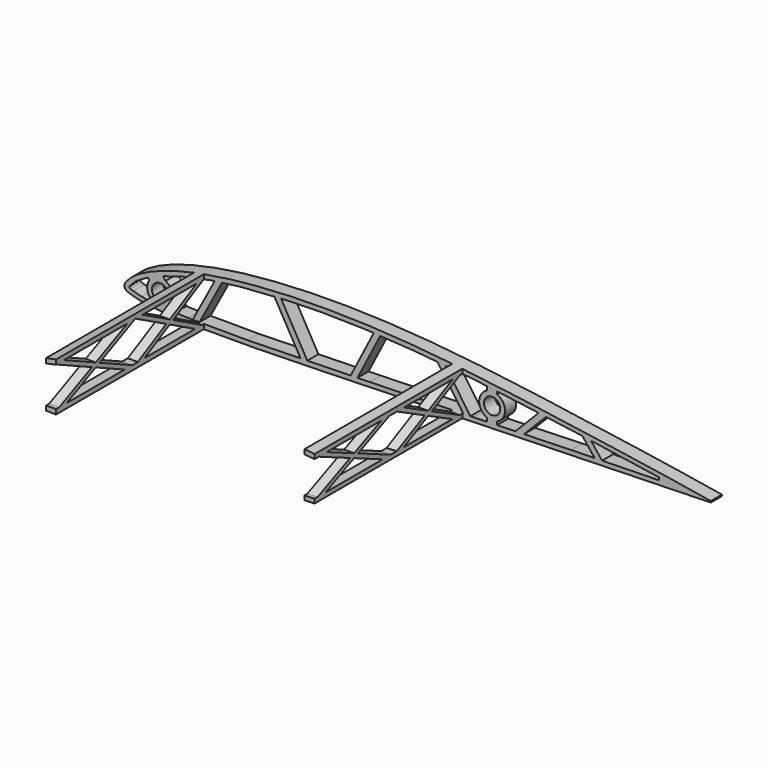
from build123d import *

# Parameters (mm, degrees)
PAD085_DEPTH    = 99.95
POCKET108_DEPTH = 99.95
SKETCH196_W     = 94.552856
SKETCH196_H     = 125.009666
POCKET109_DEPTH = 2.5
SKETCH198_W     = 55
SKETCH198_H     = 110
SKETCH198_W_2   = 125
SKETCH198_W_3   = 130
POCKET110_DEPTH = 50
SKETCH197_R     = 4.1
PAD086_DEPTH    = 7
PAD087_DEPTH    = 5
PAD088_DEPTH    = 5


with BuildPart() as part:
    # Sketch194 → Pad085 (new body)
    with BuildSketch(Plane.XZ):
        with BuildLine():
            add(Edge.make_bspline(
                [(299.999063, 0.026825), (299.662766, 0.037193), (298.339429, 0.190401), (295.439956, 0.589669), (290.775356, 1.337839), (284.500044, 2.393262), (276.735212, 3.66473), (267.577355, 5.083019), (257.136483, 6.653879), (245.549215, 8.381993), (232.975291, 10.222771), (219.590016, 12.153256), (205.573823, 14.115503), (191.111579, 16.055183), (176.381713, 17.897983), (161.544489, 19.553409), (146.739309, 20.940939), (132.087536, 21.99009), (117.705275, 22.664279), (103.703346, 22.961168), (90.192549, 22.858072), (77.284675, 22.375726), (65.094168, 21.544938), (53.730431, 20.369385), (43.29002, 18.857963), (33.852484, 17.043697), (25.485501, 14.967735), (18.252292, 12.67281), (12.179436, 10.224412), (7.338355, 7.689021), (3.623023, 5.152403), (1.3546, 2.748114), (-0.314638, 0.590402), (0.575789, -1.804065), (3.482069, -2.72942), (7.386052, -3.91761), (13.030922, -4.754284), (20.096342, -5.463024), (28.645402, -5.933379), (38.56853, -6.201185), (49.790194, -6.284208), (62.196701, -6.193111), (75.660953, -5.967607), (90.034637, -5.629522), (105.153445, -5.226063), (120.83724, -4.775199), (136.895942, -4.296045), (153.13493, -3.818601), (169.356828, -3.345106), (185.36574, -2.889379), (200.968742, -2.465331), (215.974941, -2.074889), (230.201502, -1.715375), (243.47905, -1.394255), (255.639348, -1.103787), (266.55871, -0.849968), (276.034544, -0.603524), (284.209012, -0.340437), (290.324953, -0.117215), (295.955653, 0.018504), (297.364702, 0.013759), (300.343856, 0.01512), (300.000055, 0.026794), (299.999063, 0.026825)],
                knots=[0, 0, 0, 0, 1.017748, 3.99659, 8.779341, 15.189917, 23.087031, 32.383824, 42.990765, 54.76218, 67.530065, 81.114584, 95.333435, 109.988542, 124.889458, 139.866624, 154.774633, 169.496697, 183.930349, 197.964304, 211.506735, 224.45797, 236.709214, 248.156653, 258.723012, 268.346769, 276.97692, 284.567784, 291.102108, 296.573756, 300.992679, 304.39163, 306.761357, 308.43213, 311.131254, 315.298227, 320.951765, 328.080828, 336.654655, 346.609821, 357.866231, 370.316475, 383.83025, 398.264023, 413.449345, 429.202773, 445.334827, 461.646891, 477.940787, 494.021253, 509.693044, 524.767168, 539.054704, 552.387642, 564.607107, 575.560217, 585.109622, 593.180747, 599.700326, 604.53767, 607.540683, 608.560842, 608.563842, 608.563842, 608.563842, 608.563842], degree=3))
        make_face()
    extrude(amount=PAD085_DEPTH)

    # Sketch195 (on Face3 of Pad085) → Pocket108 (cut)
    with BuildSketch(Plane.XZ.offset(99.95)):
        with BuildLine():
            Line((2.713263, 0.775372), (3.386703, 1.523026))
            Line((3.386703, 1.523026), (5.993214, 4.179621))
            Line((5.993214, 4.179621), (11.230826, 7.180706))
            Line((11.230826, 7.180706), (18.928726, 10.492708))
            Line((18.928726, 10.492708), (30.015602, 13.804502))
            Line((30.015602, 13.804502), (43.705284, 16.658491))
            Line((43.705284, 16.658491), (58.37534, 18.58366))
            Line((58.37534, 18.58366), (81.932846, 20.199753))
            Line((81.932846, 20.199753), (99.115959, 20.581533))
            Line((99.115959, 20.581533), (120.506348, 20.199753))
            Line((120.506348, 20.199753), (145.772324, 18.655943))
            Line((145.772324, 18.655943), (175.747543, 15.772772))
            Line((175.747543, 15.772772), (200.435547, 12.569891))
            Line((200.435547, 12.569891), (229.384109, 8.602522))
            Line((229.384109, 8.602522), (252.135086, 5.213018))
            Line((252.135086, 5.213018), (269.069916, 2.671427))
            Line((269.069916, 2.671427), (269.069916, 1.39956))
            Line((269.069916, 1.39956), (224.761032, 0.436598))
            Line((224.761032, 0.436598), (175.486649, -1.027315))
            Line((175.486649, -1.027315), (123.47789, -2.412929))
            Line((123.47789, -2.412929), (62.077515, -3.876549))
            Line((62.077515, -3.876549), (32.052879, -3.760909))
            Line((32.052879, -3.760909), (18.887957, -3.18288))
            Line((18.887957, -3.18288), (12.728564, -2.489715))
            Line((12.728564, -2.489715), (8.493419, -1.872198))
            Line((8.493419, -1.872198), (4.562357, -0.768246))
            Line((4.562357, -0.768246), (3.013953, -0.301296))
            ThreePointArc((2.713263, 0.775372), (2.567567, 0.15436), (3.013953, -0.301296))
        make_face()
    extrude(amount=-POCKET108_DEPTH, mode=Mode.SUBTRACT)

    # Sketch196 → Pocket109 (cut, symmetric)
    with BuildSketch(Plane.XY):
        with Locations((342.276428, -45.135685)):
            Rectangle(SKETCH196_W, SKETCH196_H)
    extrude(amount=POCKET109_DEPTH, both=True, mode=Mode.SUBTRACT)

    # Sketch198 → Pocket110 (cut, symmetric)
    with BuildSketch(Plane.XY):
        with Locations((7.5, -62)):
            Rectangle(SKETCH198_W, SKETCH198_H)
        with Locations((102.5, -62)):
            Rectangle(SKETCH198_W_2, SKETCH198_H)
        with Locations((235, -62)):
            Rectangle(SKETCH198_W_3, SKETCH198_H)
    extrude(amount=POCKET110_DEPTH, both=True, mode=Mode.SUBTRACT)

    # Sketch197 (on Face16 of Pocket110) → Pad086 (join)
    with BuildSketch(Plane.XZ.offset(7)):
        Polygon((45.883972, 17.721869), (33.929979, -4.654965), (37.331221, -4.654965), (49.864502, 18.806244), align=None)
        with BuildLine():
            ThreePointArc((12.49229, 6.45183), (11.877033, 0.818423), (15.915785, -3.156789))
            Line((15.915785, -3.156789), (16.615922, -4.582716))
            Line((16.615922, -4.582716), (26.093039, -4.582716))
            Line((23.927186, 0.331954), (26.093039, -4.582716))
            ThreePointArc((23.927186, 0.331954), (24.083233, 5.290038), (20.696327, 8.914374))
            Line((20.696327, 8.914374), (19.191151, 11.361285))
            Line((11.725203, 8.211095), (19.191151, 11.361285))
            Line((12.49229, 6.45183), (11.725203, 8.211095))
        make_face()
        with Locations((18, 3)):
            Circle(SKETCH197_R, mode=Mode.SUBTRACT)
        Polygon((74.837349, 20.968384), (89.206329, -4.249731), (92.659144, -4.249731), (78.184032, 21.154647), align=None)
        Polygon((113.371621, -3.617416), (125.992361, 20.986459), (129.33754, 20.934824), (116.743287, -3.617416), align=None)
        Polygon((156.489991, 19.012594), (171.223801, -2.187052), (175.064011, -2.455857), (160.385949, 18.663577), align=None)
        Polygon((195.991472, -1.145031), (209.190294, 12.320477), (213.439896, 12.370226), (200.19231, -1.145031), align=None)
        Polygon((229.837707, 9.194464), (237.095519, 0), (240.917549, 0), (234.226173, 8.476883), align=None)
        with BuildLine():
            ThreePointArc((182.5, 13), (178.5, 7), (182.5, 1))
            Line((182.5, 1), (182.5, -1.799935))
            Line((182.5, -1.799935), (187.5, -1.799935))
            Line((187.5, -1.799935), (187.5, 1))
            ThreePointArc((187.5, 1), (191.5, 7), (187.5, 13))
            Line((187.5, 15.534908), (187.5, 13))
            Line((182.5, 15.936711), (187.5, 15.534908))
            Line((182.5, 13), (182.5, 15.936711))
        make_face()
        with Locations((185, 7)):
            Circle(SKETCH197_R, mode=Mode.SUBTRACT)
    extrude(amount=-PAD086_DEPTH)

    # Sketch199 (on Face12 of Pad086) → Pad087 (join)
    with BuildSketch(Plane(origin=(35, 0, 0), x_dir=(0, 0, -1), z_dir=(-1, 0, 0))):
        Polygon((-17.098402, 50), (-16.000205, 50), (5.939144, 8.475523), (5.961339, 7.089303), (4.409559, 7.089303), (-17.122807, 47.843484), align=None)
        Polygon((-17.129333, 7.10705), (-17.129333, 9.145432), (4.558284, 50), (5.87403, 50.001778), (5.939742, 48.336863), (-15.947074, 7.10705), align=None)
        Polygon((-17.135797, 50), (-15.97758, 50.087739), (5.971195, 97.920066), (5.971195, 99.859802), (4.66077, 99.859802), (-17.135797, 52.359178), align=None)
        Polygon((-15.957584, 99.885406), (-17.033993, 99.885406), (-17.078244, 97.5311), (4.717648, 50), (5.827496, 50.157914), (5.827496, 52.377885), align=None)
    extrude(amount=-PAD087_DEPTH)

    # Sketch200 (on Face7 of Pad087) → Pad088 (join)
    with BuildSketch(Plane(origin=(170, 0, 0), x_dir=(0, 0, 1), z_dir=(1, 0, 0))):
        Polygon((-3.230705, 7.091972), (-2.057019, 7.091972), (18.437528, 47.77545), (18.437528, 50), (17.308382, 49.979477), (-3.230705, 9.207583), align=None)
        Polygon((17.122561, 7.079828), (18.495286, 7.079828), (18.495286, 8.806629), (-2.098574, 50), (-3.175621, 49.915909), (-3.175621, 47.681762), align=None)
        Polygon((-3.193453, 99.869281), (-2.030565, 99.869281), (18.427737, 53.149961), (18.502468, 50), (17.575653, 50.109833), (-3.193453, 97.538917), align=None)
        Polygon((-3.223656, 50), (-3.223656, 52.317749), (17.471001, 99.860643), (18.452137, 99.860643), (18.452137, 97.103538), (-2.059094, 49.982041), align=None)
    extrude(amount=-PAD088_DEPTH)


with BuildPart() as part_1:
    # Body039 placement: moved
    add(part.part.moved(Location((0, -400, 0))))


solid = part_1.part
